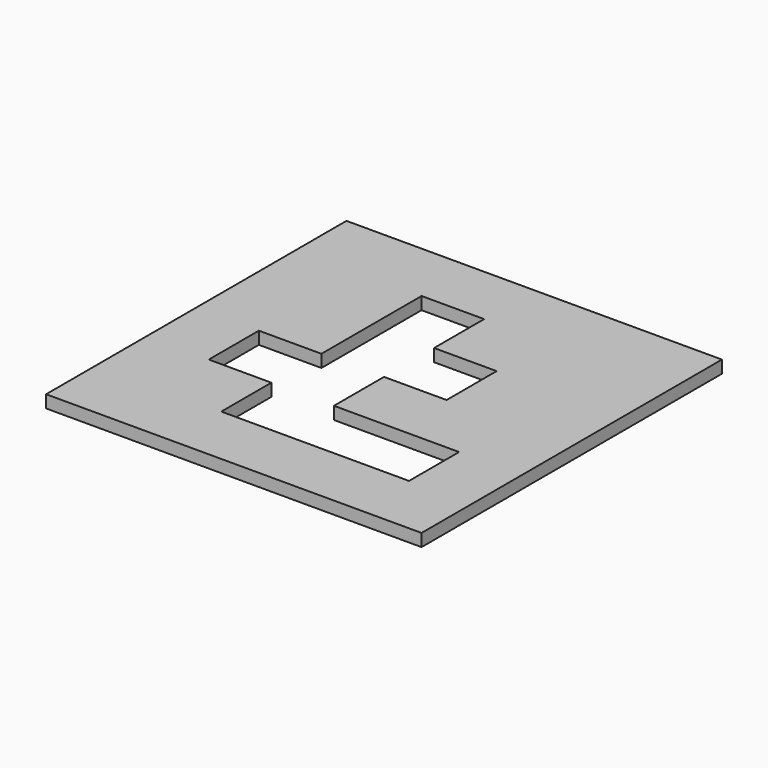
from build123d import *

# Parameters (mm, degrees)
SKETCH_W     = 90
SKETCH_H     = 90
PAD_DEPTH    = 3
POCKET_DEPTH = 3


with BuildPart() as part:
    # Sketch → Pad (new body)
    with BuildSketch(Plane.XY):
        with Locations((-45, 45)):
            Rectangle(SKETCH_W, SKETCH_H)
    extrude(amount=PAD_DEPTH)

    # Sketch001 (on Face5 of Pad) → Pocket (cut)
    with BuildSketch(Plane(origin=(0, 0, 0), x_dir=(1, 0, 0), z_dir=(0, 0, -1))):
        Polygon((-60, -15), (-60, -30), (-75, -30), (-75, -45), (-60, -45), (-60, -75), (-45, -75), (-45, -60), (-30, -60), (-30, -45), (-45, -45), (-45, -30), (-15, -30), (-15, -15), align=None)
    extrude(amount=-POCKET_DEPTH, mode=Mode.SUBTRACT)


solid = part.part
